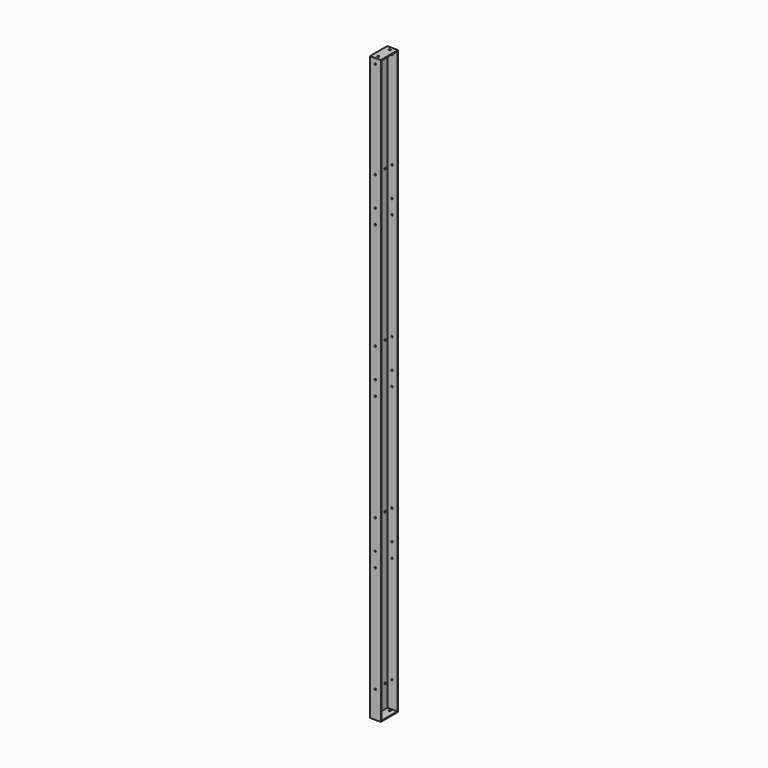
from build123d import *

# Parameters (mm, degrees)
F0_W     = 38.1
F0_H     = 76.2
F1_DEPTH = 1028.7
F2_T     = -2.778125
F3_R     = 3.175
F4_DEPTH = 38.101
F5_R     = 3.175
F6_DEPTH = 2057.401
F7_R     = 2.579688
F8_DEPTH = 76.201


with BuildPart() as f1:
    # F0 (on Top) → F1 (new body, symmetric)
    with BuildSketch(Plane.XY):
        with Locations((19.05, 38.1)):
            Rectangle(F0_W, F0_H)
    extrude(amount=F1_DEPTH, both=True)

    # F2
    f2_openings = [f1.faces().sort_by_distance(p)[0] for p in [
        (38.1, 38.1, 0),
    ]]
    offset(amount=F2_T, openings=f2_openings)

    # F3 (on face) → F4 (cut, through all)
    with BuildSketch(Plane(origin=(0, 0, 0), x_dir=(0, -1, 0), z_dir=(-1, 0, 0))):
        with Locations((-63.5, -946.15)):
            Circle(F3_R)
        with Locations((-12.7, -946.15)):
            Circle(F3_R)
        with Locations((-63.5, -412.75)):
            Circle(F3_R)
        with Locations((-12.7, -412.75)):
            Circle(F3_R)
        with Locations((-63.5, 120.65)):
            Circle(F3_R)
        with Locations((-12.7, 120.65)):
            Circle(F3_R)
        with Locations((-63.5, 654.05)):
            Circle(F3_R)
        with Locations((-12.7, 654.05)):
            Circle(F3_R)
    extrude(amount=-F4_DEPTH, mode=Mode.SUBTRACT)

    # F5 (on face) → F6 (cut, through all)
    with BuildSketch(Plane(origin=(0, 0, -1028.7), x_dir=(1, 0, 0), z_dir=(0, 0, -1))):
        with Locations((19.05, -12.7)):
            Circle(F5_R)
        with Locations((19.05, -63.5)):
            Circle(F5_R)
    extrude(amount=-F6_DEPTH, mode=Mode.SUBTRACT)

    # F7 (on face) → F8 (cut, through all)
    with BuildSketch(Plane(origin=(0, 76.2, 0), x_dir=(-1, 0, 0), z_dir=(0, 1, 0))):
        with Locations((-19.05, 561.975)):
            Circle(F7_R)
        with Locations((-19.05, 511.175)):
            Circle(F7_R)
        with Locations((-19.05, 133.35)):
            Circle(F7_R)
        with Locations((-19.05, -22.225)):
            Circle(F7_R)
        with Locations((-19.05, 28.575)):
            Circle(F7_R)
        with Locations((-19.05, -400.05)):
            Circle(F7_R)
        with Locations((-19.05, -555.625)):
            Circle(F7_R)
        with Locations((-19.05, -504.825)):
            Circle(F7_R)
        with Locations((-19.05, -933.45)):
            Circle(F7_R)
        with Locations((-19.05, 666.75)):
            Circle(F7_R)
        with Locations((-19.05, 1009.65)):
            Circle(F7_R)
    extrude(amount=-F8_DEPTH, mode=Mode.SUBTRACT)


solid = f1.part
